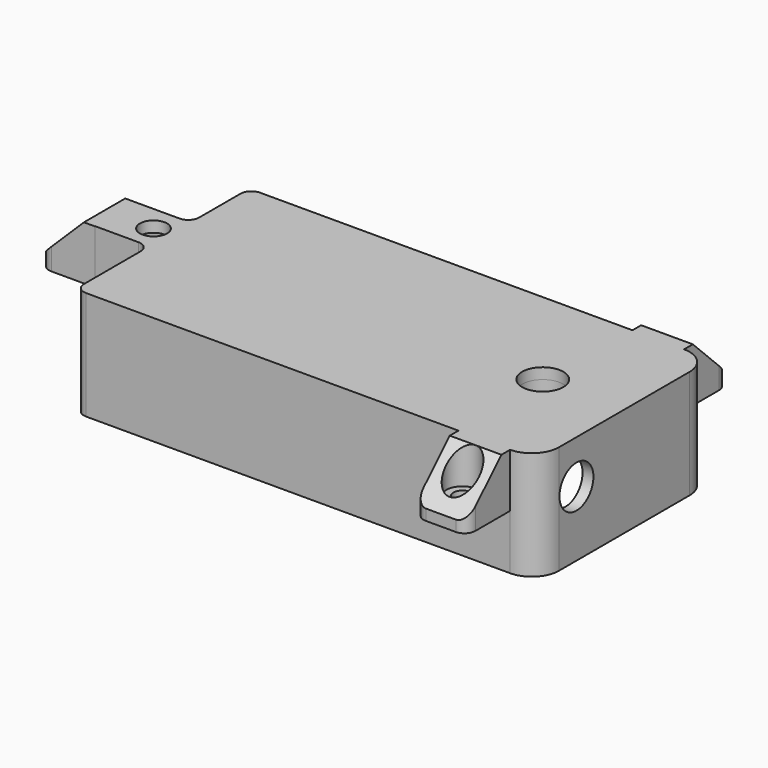
from build123d import *

# Parameters (mm, degrees)
PAD001_DEPTH    = 20
SKETCH003_W     = 10
SKETCH003_H     = 13.501793
SKETCH003_H_2   = 17.05798
POCKET_DEPTH    = 28
THICKNESS_T     = -2
SKETCH010_W     = 10
SKETCH010_H     = 3.5
POCKET004_DEPTH = 36
FILLET001_R     = 2
SKETCH011_R     = 2.5
SKETCH011_R_2   = 3.8
POCKET005_DEPTH = 2
SKETCH015_R     = 3.9
POCKET010_DEPTH = 2
SKETCH022_R     = 5
SKETCH022_R_2   = 3.8
PAD008_DEPTH    = 10
SKETCH023_W     = 10
SKETCH023_H     = 9.5
SKETCH023_W_2   = 9.5
SKETCH023_H_2   = 10
PAD009_DEPTH    = 9.9
SKETCH024_R     = 1.7
POCKET012_DEPTH = 20.001
SKETCH025_R     = 3
POCKET013_DEPTH = 7
POCKET014_DEPTH = 33.0010000001
POCKET015_DEPTH = 100.001
FILLET003_R     = 2


with BuildPart() as part:
    # Sketch002 → Pad001 (new body)
    with BuildSketch(Plane.XY):
        with BuildLine():
            Line((5, 0), (90, 0))
            ThreePointArc((90, 0), (93.5355339059, 1.4644660941), (95, 5))
            Line((95, 5), (95, 35))
            ThreePointArc((95, 35), (93.5355339059, 38.5355339059), (90, 40))
            Line((90, 40), (5, 40))
            ThreePointArc((5, 40), (1.4644660941, 38.5355339059), (0, 35))
            Line((0, 35), (0, 5))
            ThreePointArc((0, 5), (1.4644660941, 1.4644660941), (5, 0))
        make_face()
    extrude(amount=PAD001_DEPTH)

    # Sketch003 (on Face10 of Pad001) → Pocket (cut)
    with BuildSketch(Plane.XY.offset(20)):
        with Locations((5, 33.2491035)):
            Rectangle(SKETCH003_W, SKETCH003_H)
        with Locations((5, 8.52899)):
            Rectangle(SKETCH003_W, SKETCH003_H_2)
    extrude(amount=-POCKET_DEPTH, mode=Mode.SUBTRACT)

    # Thickness
    thickness_openings = [part.faces().sort_by_distance(p)[0] for p in [
        (51.085357, 20.048184, 0),
    ]]
    offset(amount=THICKNESS_T, openings=thickness_openings, kind=Kind.INTERSECTION)

    # Sketch010 (on Face24 of Thickness) → Pocket004 (cut)
    with BuildSketch(Plane(origin=(0, 2, 0), x_dir=(-1, 0, 0), z_dir=(0, 1, 0))):
        with Locations((-7, 1.75)):
            Rectangle(SKETCH010_W, SKETCH010_H)
    extrude(amount=POCKET004_DEPTH, mode=Mode.SUBTRACT)

    # Fillet001
    fillet001_edges = [part.edges().sort_by_distance(p)[0] for p in [
        (10, 0, 10),
        (10, 17.05798, 11.75),
        (10, 26.498207, 11.75),
        (10, 40, 10),
    ]]
    fillet(fillet001_edges, radius=FILLET001_R)

    # Sketch011 (on Face5 of Fillet001) → Pocket005 (cut)
    with BuildSketch(Plane.XY.offset(20)):
        with Locations((7, 21.75)):
            Circle(SKETCH011_R)
        with Locations((80, 20)):
            Circle(SKETCH011_R_2)
    extrude(amount=-POCKET005_DEPTH, mode=Mode.SUBTRACT)

    # Sketch015 → Pocket010 (cut)
    with BuildSketch(Plane.YZ.offset(95)):
        with Locations((9, 12)):
            Circle(SKETCH015_R)
    extrude(amount=-POCKET010_DEPTH, mode=Mode.SUBTRACT)

    # Sketch022 (on Face27 of Pocket010) → Pad008 (join)
    with BuildSketch(Plane(origin=(0, 0, 18), x_dir=(1, 0, 0), z_dir=(0, 0, -1))):
        with Locations((80, -20)):
            Circle(SKETCH022_R)
        with Locations((80, -20)):
            Circle(SKETCH022_R_2, mode=Mode.SUBTRACT)
    extrude(amount=PAD008_DEPTH)

    # Sketch023 (on Face5 of Pad008) → Pad009 (join)
    with BuildSketch(Plane.XY.offset(20)):
        with Locations((-5, 21.75)):
            Rectangle(SKETCH023_W, SKETCH023_H)
        with Locations((85.25, -5)):
            Rectangle(SKETCH023_W_2, SKETCH023_H_2)
        with Locations((85.25, 45)):
            Rectangle(SKETCH023_W_2, SKETCH023_H_2)
    extrude(amount=-PAD009_DEPTH)

    # Sketch024 (on Face17 of Pad009) → Pocket012 (cut, through all)
    with BuildSketch(Plane.XY.offset(20)):
        with Locations((85.25, 45)):
            Circle(SKETCH024_R)
        with Locations((85.25, -5)):
            Circle(SKETCH024_R)
        with Locations((-5, 21.75)):
            Circle(SKETCH024_R)
    extrude(amount=-POCKET012_DEPTH, mode=Mode.SUBTRACT)

    # Sketch025 (on Face35 of Pocket012) → Pocket013 (cut)
    with BuildSketch(Plane.XY.offset(20)):
        with Locations((-5, 21.75)):
            Circle(SKETCH025_R)
        with Locations((85.25, 45)):
            Circle(SKETCH025_R)
        with Locations((85.25, -5)):
            Circle(SKETCH025_R)
    extrude(amount=-POCKET013_DEPTH, mode=Mode.SUBTRACT)

    # Sketch026 (on Face57 of Pocket013) → Pocket014 (cut, through all)
    with BuildSketch(Plane.XZ.offset(-17)):
        Polygon((-10, 12.1), (-2, 20), (-10, 20), align=None)
    extrude(amount=-POCKET014_DEPTH, mode=Mode.SUBTRACT)

    # Sketch027 (on Face23 of Pocket014) → Pocket015 (cut, through all)
    with BuildSketch(Plane.YZ.offset(90)):
        Polygon((-10, 12.1), (-2, 20), (-10, 20), align=None)
        Polygon((42, 20), (50, 12.1), (50, 20), align=None)
    extrude(amount=-POCKET015_DEPTH, mode=Mode.SUBTRACT)

    # Fillet003
    fillet003_edges = [part.edges().sort_by_distance(p)[0] for p in [
        (-10, 17, 11.1),
        (-10, 26.5, 11.1),
        (80.5, 50, 11.1),
        (90, 50, 11.1),
        (80.5, -10, 11.1),
        (90, -10, 11.1),
    ]]
    fillet(fillet003_edges, radius=FILLET003_R)


with BuildPart() as part_1:
    # Body001 placement: moved
    add(part.part.moved(Location((0, 0, 2))))


solid = part_1.part
